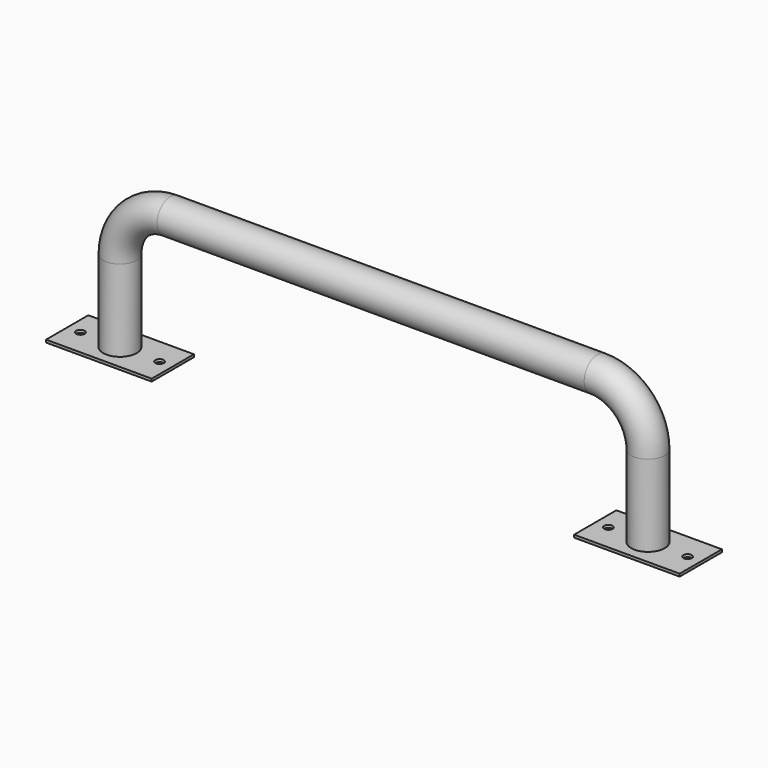
from build123d import *

# Parameters (mm, degrees)
F0_R     = 6.35
F0_R_2   = 5.55
F4_W     = 40
F4_H     = 20
F4_R     = 1.6
F5_DEPTH = 1


with BuildPart() as f2:
    # F2: sweep along a path in F1
    with BuildLine(Plane.XZ) as f2_path:
        Line((0, 0), (0, 30.9))
        ThreePointArc((0, 30.9), (5.5942604793, 44.4057395207), (19.1, 50))
        Line((19.1, 50), (100, 50))
    # F0 (on Top) → F2 (sweep)
    with BuildSketch(Plane.XY):
        Circle(F0_R)
        Circle(F0_R_2, mode=Mode.SUBTRACT)
    sweep(path=f2_path.line)

    # F6: F2 across plane


with BuildPart() as f5:
    # F4 (on Top) → F5 (new body)
    with BuildSketch(Plane.XY):
        Rectangle(F4_W, F4_H)
        with Locations((-15, 0)):
            Circle(F4_R, mode=Mode.SUBTRACT)
        with Locations((15, 0)):
            Circle(F4_R, mode=Mode.SUBTRACT)
    extrude(amount=-F5_DEPTH)


with BuildPart() as f2_1:
    add(f2.part)
    add(f2.part.mirror(Plane.YZ.offset(100)))


with BuildPart() as f7_1:
    # F7: instance of F5
    add(f5.part.mirror(Plane.YZ.offset(100)))


solid = Compound([f5.part, f2_1.part, f7_1.part])
